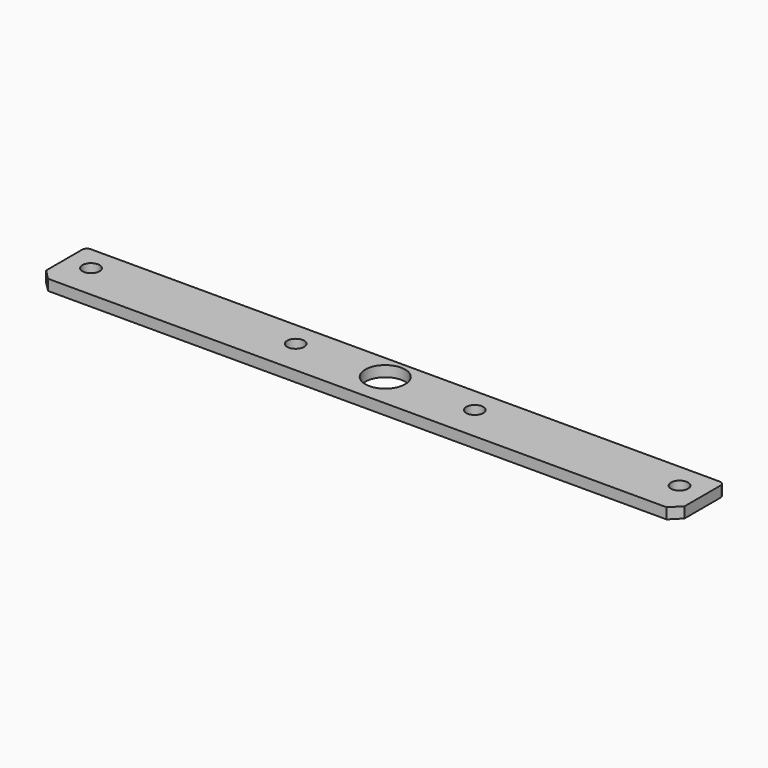
from build123d import *

# Parameters (mm, degrees)
F0_W     = 101.6
F0_H     = 9.525
F0_R     = 1.35255
F0_R_2   = 3.175
F1_DEPTH = 1.70942
F2_R     = 0.762
F3_SIZE  = 1.5875


with BuildPart() as f1:
    # F0 (on Top) → F1 (new body)
    with BuildSketch(Plane.XY):
        with Locations((-50.8, -4.7625)):
            Rectangle(F0_W, F0_H)
        with Locations((-97.63125, -3.96875)):
            Circle(F0_R, mode=Mode.SUBTRACT)
        with Locations((-65.057693, -3.96875)):
            Circle(F0_R, mode=Mode.SUBTRACT)
        with Locations((-50.8, -3.96875)):
            Circle(F0_R_2, mode=Mode.SUBTRACT)
        with Locations((-36.542307, -3.96875)):
            Circle(F0_R, mode=Mode.SUBTRACT)
        with Locations((-3.96875, -3.96875)):
            Circle(F0_R, mode=Mode.SUBTRACT)
    extrude(amount=F1_DEPTH)

    # F2
    f2_edges = [f1.edges().sort_by_distance(p)[0] for p in [
        (-101.6, 0, 0.85471),
        (0, 0, 0.85471),
    ]]
    fillet(f2_edges, radius=F2_R)

    # F3
    f3_edges = [f1.edges().sort_by_distance(p)[0] for p in [
        (0, -9.525, 0.85471),
        (-101.6, -9.525, 0.85471),
    ]]
    chamfer(f3_edges, length=F3_SIZE)


solid = f1.part
